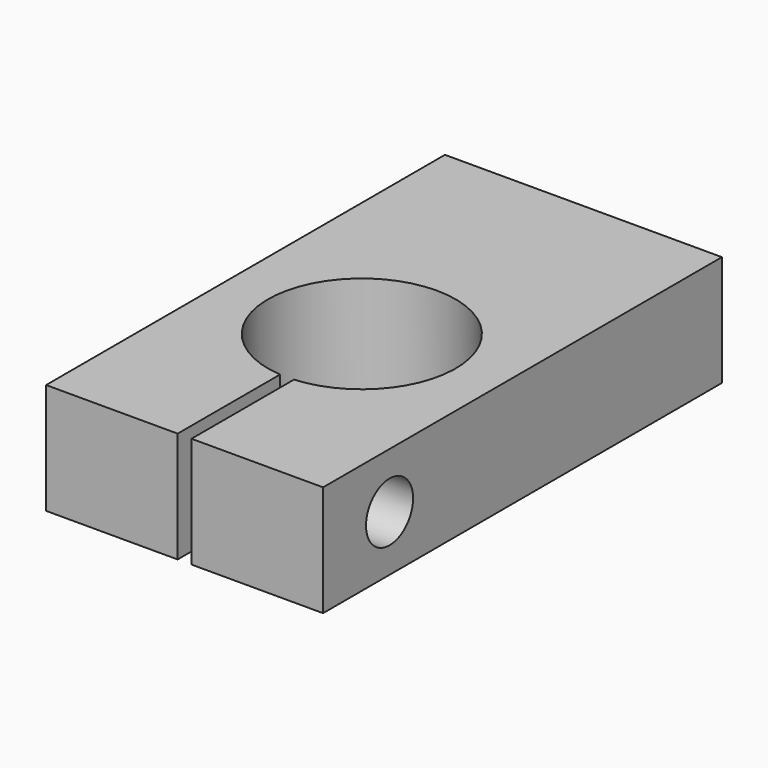
from build123d import *

# Parameters (mm, degrees)
F0_W     = 63.5
F0_H     = 114.3
F1_DEPTH = 25.4
F3_D     = 5.1054
F3_DEPTH = 22.86
F3_TIP   = 1.5338169022
F5_DEPTH = 25.4
F6_R     = 6.746875
F7_DEPTH = 30.1625
F9_D     = 11.50874


with BuildPart() as f1:
    # F0 (on Top) → F1 (new body)
    with BuildSketch(Plane.XY):
        with Locations((31.75, -57.15)):
            Rectangle(F0_W, F0_H)
    extrude(amount=F1_DEPTH)

    # F3
    with Locations(Plane(origin=(0, 0, 0), x_dir=(-1, 0, 0), z_dir=(0, 1, 0))):
        with Locations((-57.15, 12.7), (-6.35, 12.7)):
            Hole(F3_D / 2, depth=F3_DEPTH)
            with Locations((0, 0, -(F3_DEPTH + F3_TIP / 2))):  # 118° drill point
                Cone(0, F3_D / 2, F3_TIP, mode=Mode.SUBTRACT)

    # F4 (on face) → F5 (cut, through all)
    with BuildSketch(Plane.XY.offset(25.4)):
        with BuildLine():
            Line((33.3375, -114.3), (33.3375, -84.9413116145))
            ThreePointArc((33.3375, -84.9413116145), (31.75, -42), (30.1625, -84.9413116145))
            Line((30.1625, -84.9413116145), (30.1625, -114.3))
            Line((30.1625, -114.3), (33.3375, -114.3))
        make_face()
    extrude(amount=-F5_DEPTH, mode=Mode.SUBTRACT)

    # F6 (on face) → F7 (cut, through all)
    with BuildSketch(Plane.YZ.offset(63.5)):
        with Locations((-95.25, 12.7)):
            Circle(F6_R)
    extrude(amount=-F7_DEPTH, mode=Mode.SUBTRACT)

    # F9 (through all)
    with Locations(Plane.YZ.offset(30.1625)):
        with Locations((-95.25, 12.7)):
            Hole(F9_D / 2)


solid = f1.part
